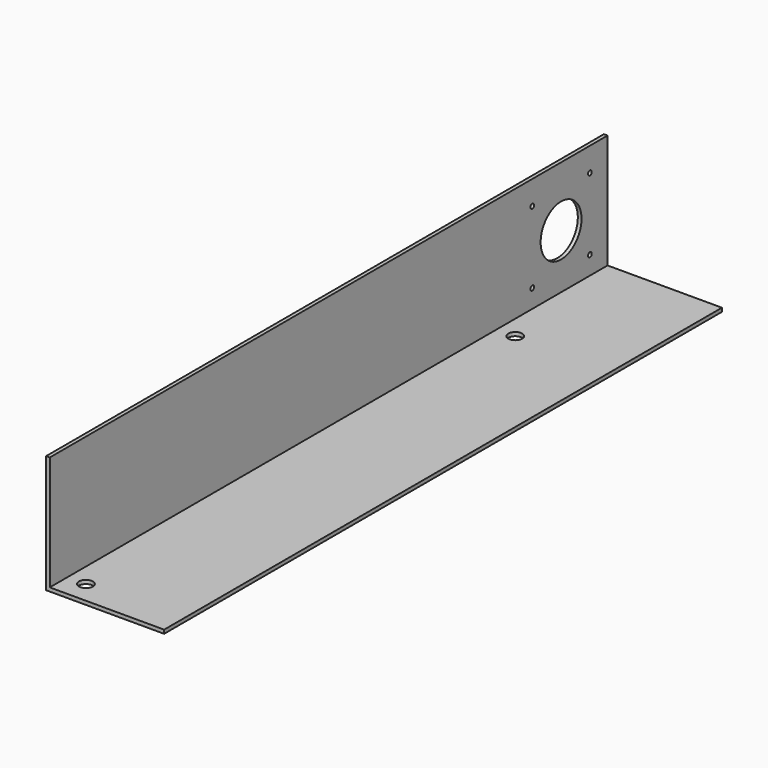
from build123d import *

# Parameters (mm, degrees)
F1_DEPTH = 300
F2_R     = 3
F3_DEPTH = 50.801
F4_R     = 11
F4_R_2   = 1
F5_DEPTH = 50.801


with BuildPart() as f1:
    # F0 (on Front) → F1 (new body)
    with BuildSketch(Plane.XZ):
        Polygon((0, 50.8), (0, 0), (50.8, 0), (50.8, 1.59), (1.59, 1.59), (1.59, 50.8), align=None)
    extrude(amount=F1_DEPTH)

    # F2 (on Top) → F3 (cut, through all)
    with BuildSketch(Plane.XY):
        with Locations((9.525, -59.525)):
            Circle(F2_R)
        with Locations((9.525, -290.475)):
            Circle(F2_R)
    extrude(amount=F3_DEPTH, mode=Mode.SUBTRACT)

    # F4 (on Right) → F5 (cut, through all)
    with BuildSketch(Plane.YZ):
        with Locations((-25, 25)):
            Circle(F4_R)
        with Locations((-40.5, 9.5)):
            Circle(F4_R_2)
        with Locations((-9.5, 9.5)):
            Circle(F4_R_2)
        with Locations((-9.5, 40.5)):
            Circle(F4_R_2)
        with Locations((-40.5, 40.5)):
            Circle(F4_R_2)
    extrude(amount=F5_DEPTH, mode=Mode.SUBTRACT)


solid = f1.part
